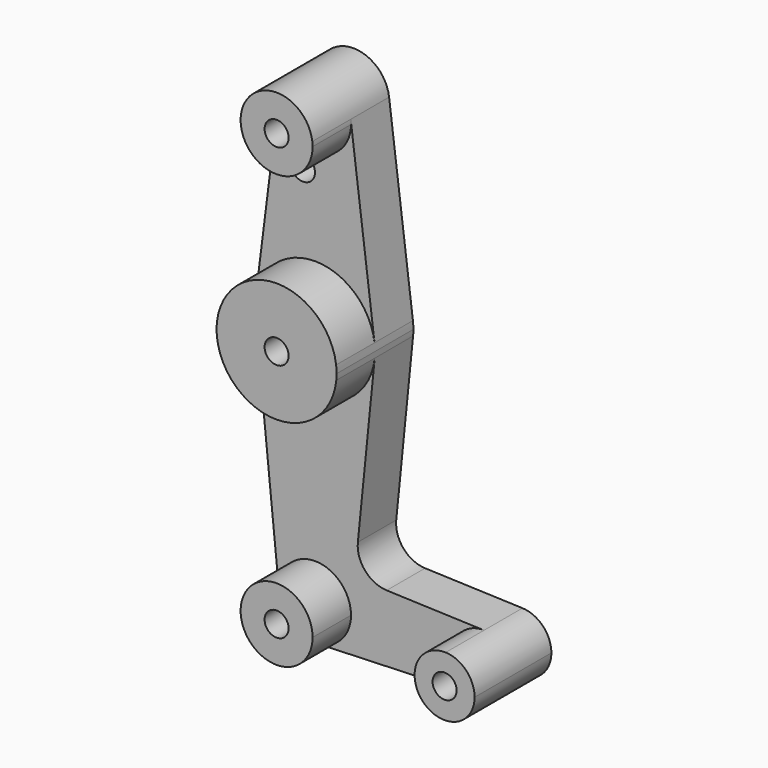
from build123d import *

# Parameters (mm, degrees)
F0_R     = 3.175
F1_DEPTH = 25.4
F2_DEPTH = 12.7


with BuildPart() as f1:
    # F0 (on Front) → F1 (new body)
    with BuildSketch(Plane.XZ):
        with BuildLine():
            ThreePointArc((9.525, 50.8), (9.506305, 51.396483), (9.450293, 51.990625))
            ThreePointArc((9.450293, 51.990625), (0, 60.325), (-9.450293, 51.990625))
            ThreePointArc((-9.450293, 51.990625), (-0.596483, 41.293695), (9.525, 50.8))
        make_face()
        with Locations((0, 50.8)):
            Circle(F0_R, mode=Mode.SUBTRACT)
        with BuildLine():
            ThreePointArc((15.795426, -1.5875), (15.855094, -0.794747), (15.875, 0))
            ThreePointArc((15.875, 0), (15.843841, 0.994139), (15.750488, 1.984375))
            ThreePointArc((15.750488, 1.984375), (0, 15.875), (-15.750488, 1.984375))
            ThreePointArc((-15.750488, 1.984375), (-15.873744, 0.199705), (-15.795426, -1.5875))
            ThreePointArc((-15.795426, -1.5875), (0, -15.875), (15.795426, -1.5875))
        make_face()
        Circle(F0_R, mode=Mode.SUBTRACT)
        with BuildLine():
            ThreePointArc((9.525, -63.5), (-0.476848, -53.986944), (-9.477255, -64.4525))
            ThreePointArc((-9.477255, -64.4525), (-6.262383, -70.67692), (0.340179, -73.018923))
            ThreePointArc((0.340179, -73.018923), (6.854408, -70.113827), (9.525, -63.5))
        make_face()
        with Locations((0, -63.5)):
            Circle(F0_R, mode=Mode.SUBTRACT)
        with BuildLine():
            ThreePointArc((52.3875, -63.5), (50.162007, -57.988477), (44.733482, -55.567564))
            ThreePointArc((44.733482, -55.567564), (36.5125, -63.5), (44.733482, -71.432436))
            ThreePointArc((44.733482, -71.432436), (50.162007, -69.011523), (52.3875, -63.5))
        make_face()
        with Locations((44.45, -63.5)):
            Circle(F0_R, mode=Mode.SUBTRACT)
    extrude(amount=F1_DEPTH)

    # F0 (on Front) → F2 (join)
    with BuildSketch(Plane.XZ):
        with BuildLine():
            ThreePointArc((-15.750488, 1.984375), (0, 15.875), (15.750488, 1.984375))
            Line((15.750488, 1.984375), (9.450293, 51.990625))
            ThreePointArc((9.450293, 51.990625), (9.506305, 51.396483), (9.525, 50.8))
            ThreePointArc((9.525, 50.8), (-0.596483, 41.293695), (-9.450293, 51.990625))
            Line((-9.450293, 51.990625), (-15.750488, 1.984375))
        make_face()
        with Locations((-3.175, 36.5252)):
            Circle(F0_R, mode=Mode.SUBTRACT)
        with BuildLine():
            Line((11.341187, -45.906618), (15.795426, -1.5875))
            ThreePointArc((15.795426, -1.5875), (0, -15.875), (-15.795426, -1.5875))
            Line((-15.795426, -1.5875), (-9.477255, -64.4525))
            ThreePointArc((-9.477255, -64.4525), (-0.476848, -53.986944), (9.525, -63.5))
            ThreePointArc((9.525, -63.5), (6.854408, -70.113827), (0.340179, -73.018923))
            Line((0.340179, -73.018923), (44.733482, -71.432436))
            ThreePointArc((44.733482, -71.432436), (36.5125, -63.5), (44.733482, -55.567564))
            Line((44.733482, -55.567564), (18.9676, -54.646766))
            ThreePointArc((18.9676, -54.646766), (13.2612, -51.928641), (11.341187, -45.906618))
        make_face()
    extrude(amount=F2_DEPTH)


solid = f1.part
